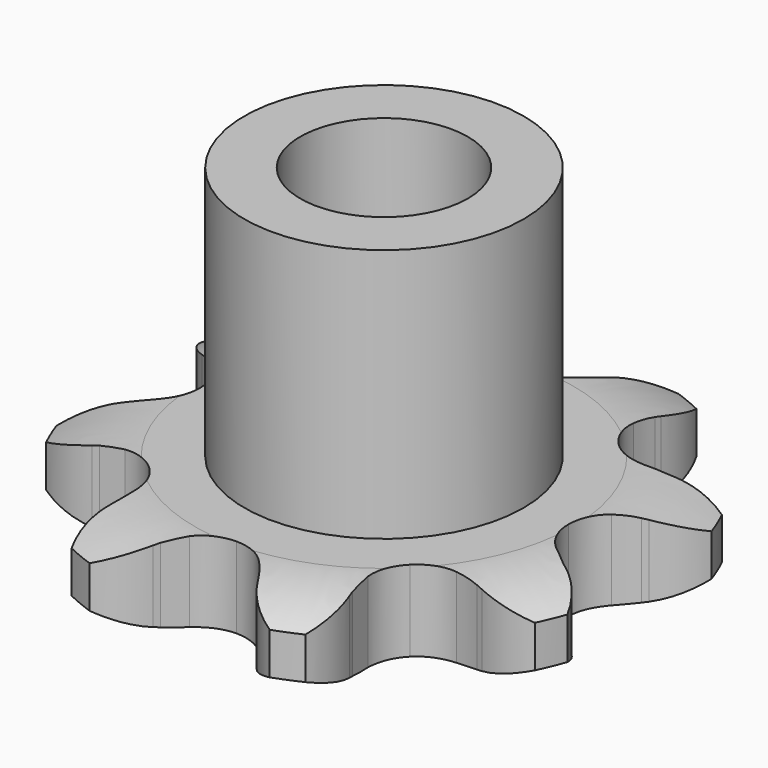
from build123d import *

# Parameters (mm, degrees)
PAD_DEPTH         = 2.9
SKETCH001_R       = 5
PAD001_DEPTH      = 12
SKETCH002_R       = 3
POCKET_DEPTH      = 0.001
POCKET_DEPTH_BACK = -12.001


with BuildPart() as part:
    # Sprocket → Pad (new body)
    with BuildSketch(Plane.XY):
        with BuildLine():
            ThreePointArc((-3.859269, 9.317099), (-2.715986, 8.880883), (-1.865357, 8.001217))
            Line((-1.865357, 8.001217), (-1.750934, 7.814496))
            ThreePointArc((-1.750934, 7.814496), (-1.516751, 7.470552), (-1.25068, 7.150637))
            ThreePointArc((-1.25068, 7.150637), (-0.683199, 6.743986), (0, 6.600325))
            ThreePointArc((0, 6.600325), (0.683199, 6.743986), (1.25068, 7.150637))
            ThreePointArc((1.25068, 7.150637), (1.516751, 7.470552), (1.750934, 7.814496))
            Line((1.750934, 7.814496), (1.865357, 8.001217))
            ThreePointArc((1.865357, 8.001217), (2.715986, 8.880883), (3.859269, 9.317099))
            ThreePointArc((3.859269, 9.317099), (4.359241, 8.200224), (4.338709, 6.976721))
            Line((4.338709, 6.976721), (4.287586, 6.763781))
            ThreePointArc((4.287586, 6.763781), (4.209973, 6.354983), (4.1719, 5.940629))
            ThreePointArc((4.1719, 5.940629), (4.285623, 5.251813), (4.667134, 4.667134))
            ThreePointArc((4.667134, 4.667134), (5.251813, 4.285623), (5.940629, 4.1719))
            Line((5.940629, 4.1719), (6.763781, 4.287586))
            ThreePointArc((6.763781, 4.287586), (6.869928, 4.314492), (6.976721, 4.338709))
            ThreePointArc((6.976721, 4.338709), (8.200224, 4.359241), (9.317099, 3.859269))
            ThreePointArc((9.317099, 3.859269), (8.880883, 2.715986), (8.001217, 1.865357))
            Line((8.001217, 1.865357), (7.814496, 1.750934))
            ThreePointArc((7.814496, 1.750934), (7.470552, 1.516751), (7.150637, 1.25068))
            ThreePointArc((7.150637, 1.25068), (6.743986, 0.683199), (6.600325, 0))
            ThreePointArc((6.600325, 0), (6.743986, -0.683199), (7.150637, -1.25068))
            Line((7.150637, -1.25068), (7.814496, -1.750934))
            ThreePointArc((7.814496, -1.750934), (7.908579, -1.806966), (8.001217, -1.865357))
            ThreePointArc((8.001217, -1.865357), (8.880883, -2.715986), (9.317099, -3.859269))
            ThreePointArc((9.317099, -3.859269), (8.200224, -4.359241), (6.976721, -4.338709))
            Line((6.976721, -4.338709), (6.763781, -4.287586))
            ThreePointArc((6.763781, -4.287586), (6.354983, -4.209973), (5.940629, -4.1719))
            ThreePointArc((5.940629, -4.1719), (5.251813, -4.285623), (4.667134, -4.667134))
            ThreePointArc((4.667134, -4.667134), (4.285623, -5.251813), (4.1719, -5.940629))
            Line((4.1719, -5.940629), (4.287586, -6.763781))
            ThreePointArc((4.287586, -6.763781), (4.314492, -6.869928), (4.338709, -6.976721))
            ThreePointArc((4.338709, -6.976721), (4.359241, -8.200224), (3.859269, -9.317099))
            ThreePointArc((3.859269, -9.317099), (2.715986, -8.880883), (1.865357, -8.001217))
            Line((1.865357, -8.001217), (1.750934, -7.814496))
            ThreePointArc((1.750934, -7.814496), (1.516751, -7.470552), (1.25068, -7.150637))
            ThreePointArc((1.25068, -7.150637), (0.683199, -6.743986), (0, -6.600325))
            ThreePointArc((0, -6.600325), (-0.683199, -6.743986), (-1.25068, -7.150637))
            Line((-1.25068, -7.150637), (-1.750934, -7.814496))
            ThreePointArc((-1.750934, -7.814496), (-1.806966, -7.908579), (-1.865357, -8.001217))
            ThreePointArc((-1.865357, -8.001217), (-2.715986, -8.880883), (-3.859269, -9.317099))
            ThreePointArc((-3.859269, -9.317099), (-4.359241, -8.200224), (-4.338709, -6.976721))
            Line((-4.338709, -6.976721), (-4.287586, -6.763781))
            ThreePointArc((-4.287586, -6.763781), (-4.209973, -6.354983), (-4.1719, -5.940629))
            ThreePointArc((-4.1719, -5.940629), (-4.285623, -5.251813), (-4.667134, -4.667134))
            ThreePointArc((-4.667134, -4.667134), (-5.251813, -4.285623), (-5.940629, -4.1719))
            Line((-5.940629, -4.1719), (-6.763781, -4.287586))
            ThreePointArc((-6.763781, -4.287586), (-6.869928, -4.314492), (-6.976721, -4.338709))
            ThreePointArc((-6.976721, -4.338709), (-8.200224, -4.359241), (-9.317099, -3.859269))
            ThreePointArc((-9.317099, -3.859269), (-8.880883, -2.715986), (-8.001217, -1.865357))
            Line((-8.001217, -1.865357), (-7.814496, -1.750934))
            ThreePointArc((-7.814496, -1.750934), (-7.470552, -1.516751), (-7.150637, -1.25068))
            ThreePointArc((-7.150637, -1.25068), (-6.743986, -0.683199), (-6.600325, 0))
            ThreePointArc((-6.600325, 0), (-6.743986, 0.683199), (-7.150637, 1.25068))
            Line((-7.150637, 1.25068), (-7.814496, 1.750934))
            ThreePointArc((-7.814496, 1.750934), (-7.908579, 1.806966), (-8.001217, 1.865357))
            ThreePointArc((-8.001217, 1.865357), (-8.880883, 2.715986), (-9.317099, 3.859269))
            ThreePointArc((-9.317099, 3.859269), (-8.200224, 4.359241), (-6.976721, 4.338709))
            Line((-6.976721, 4.338709), (-6.763781, 4.287586))
            ThreePointArc((-6.763781, 4.287586), (-6.354983, 4.209973), (-5.940629, 4.1719))
            ThreePointArc((-5.940629, 4.1719), (-5.251813, 4.285623), (-4.667134, 4.667134))
            ThreePointArc((-4.667134, 4.667134), (-4.285623, 5.251813), (-4.1719, 5.940629))
            Line((-4.1719, 5.940629), (-4.287586, 6.763781))
            ThreePointArc((-4.287586, 6.763781), (-4.314492, 6.869928), (-4.338709, 6.976721))
            ThreePointArc((-4.338709, 6.976721), (-4.359241, 8.200224), (-3.859269, 9.317099))
        make_face()
    extrude(amount=PAD_DEPTH)

    # Sketch → Groove (revolve, cut)
    with BuildSketch(Plane.XZ):
        with BuildLine():
            Line((6.789674, 0), (9.7, 0))
            Line((12.610326, 0), (9.7, 0))
            Line((12.610326, 2.9), (12.610326, 0))
            Line((9.7, 2.9), (12.610326, 2.9))
            Line((6.789674, 2.9), (9.7, 2.9))
            ThreePointArc((9.7, 2.2), (8.286337, 2.72254), (6.789674, 2.9))
            Line((9.7, 0.7), (9.7, 2.2))
            ThreePointArc((6.789674, 0), (8.286337, 0.17746), (9.7, 0.7))
        make_face()
    revolve(axis=Axis((0, 0, 0), (0, 0, 1)), mode=Mode.SUBTRACT)

    # Sketch001 → Pad001 (join)
    with BuildSketch(Plane.XY):
        Circle(SKETCH001_R)
    extrude(amount=PAD001_DEPTH)

    # Sketch002 → Pocket (cut, two sides)
    with BuildSketch(Plane.XY) as pocket_sk:
        Circle(SKETCH002_R)
    extrude(amount=-POCKET_DEPTH, mode=Mode.SUBTRACT)
    extrude(pocket_sk.sketch, amount=-POCKET_DEPTH_BACK, mode=Mode.SUBTRACT)


solid = part.part
